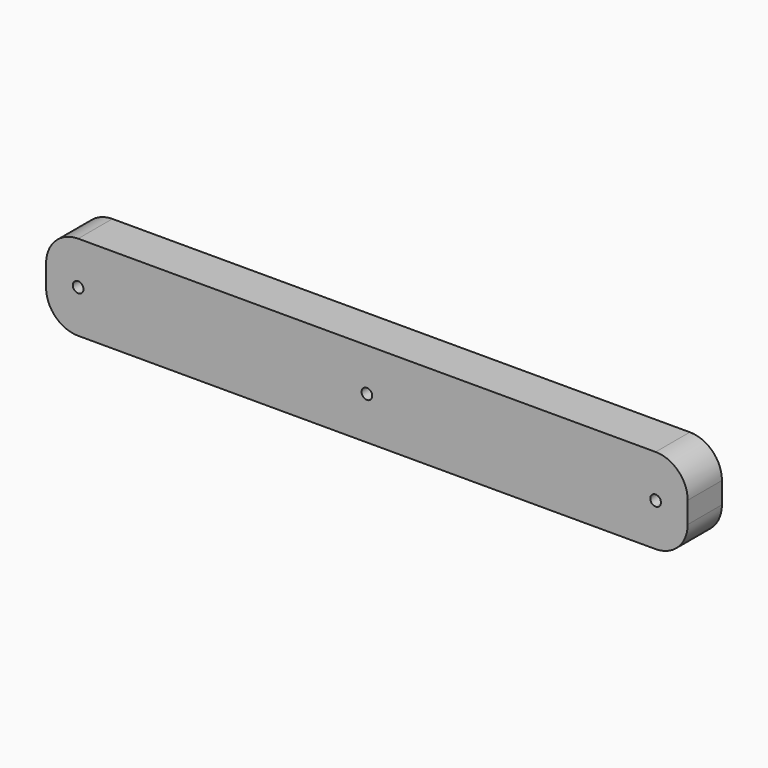
from build123d import *

# Parameters (mm, degrees)
F0_R     = 3.175
F1_DEPTH = 25.4


with BuildPart() as f1:
    # F0 (on Front) → F1 (new body)
    with BuildSketch(Plane.XZ):
        with BuildLine():
            Line((0, 31.75), (0, 19.05))
            ThreePointArc((0, 19.05), (5.579616, 5.579616), (19.05, 0))
            Line((19.05, 0), (361.95, 0))
            ThreePointArc((361.95, 0), (375.420384, 5.579616), (381, 19.05))
            Line((381, 19.05), (381, 31.75))
            ThreePointArc((381, 31.75), (375.420384, 45.220384), (361.95, 50.8))
            Line((361.95, 50.8), (19.05, 50.8))
            ThreePointArc((19.05, 50.8), (5.579616, 45.220384), (0, 31.75))
        make_face()
        with Locations((19.05, 25.4)):
            Circle(F0_R, mode=Mode.SUBTRACT)
        with Locations((190.5, 25.4)):
            Circle(F0_R, mode=Mode.SUBTRACT)
        with Locations((361.95, 25.4)):
            Circle(F0_R, mode=Mode.SUBTRACT)
    extrude(amount=F1_DEPTH)


solid = f1.part
